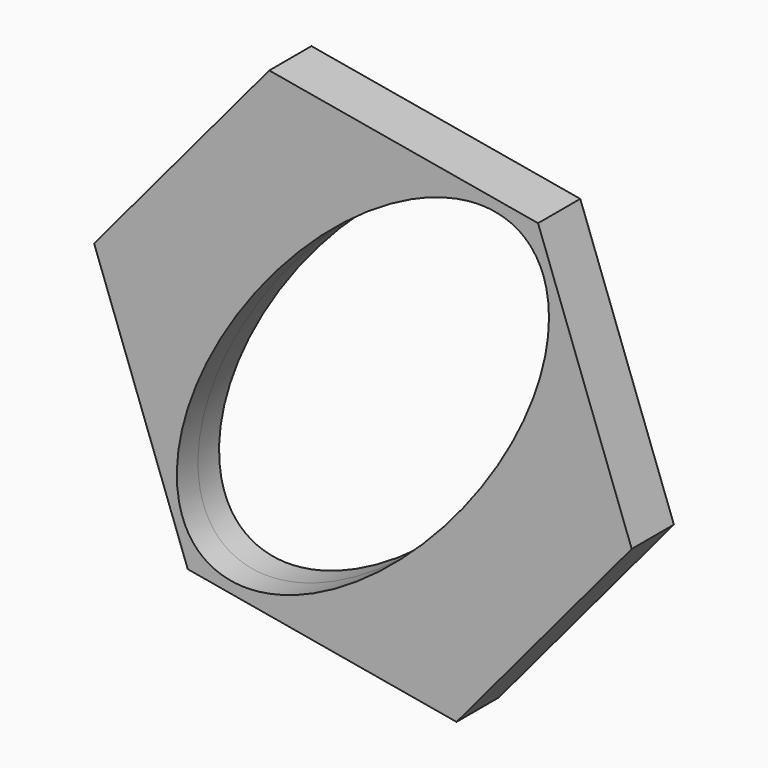
from build123d import *

# Parameters (mm, degrees)
F1_DEPTH = 6.35


with BuildPart() as f1:
    # F0 (on Front) → F1 (new body, symmetric)
    with BuildSketch(Plane.XZ):
        Polygon((42.16895, 50.375584), (-22.54206, 61.707173), (-64.71101, 11.33159), (-42.16895, -50.375584), (22.54206, -61.707173), (64.71101, -11.33159), align=None)
        with BuildLine():
            add(Edge.make_bspline(
                [(39.077189, 46.172209), (1.126748, 78.291022), (-38.513815, -7.026698), (-78.154378, -92.344418), (-0.563374, -39.145511), (77.02763, 14.053396), (39.077189, 46.172209)],
                knots=[0, 0, 0, 2.094395, 2.094395, 4.18879, 4.18879, 6.283185, 6.283185, 6.283185], degree=2, weights=[1, 0.5, 1, 0.5, 1, 0.5, 1]))
        make_face(mode=Mode.SUBTRACT)
    extrude(amount=F1_DEPTH, both=True)


solid = f1.part
